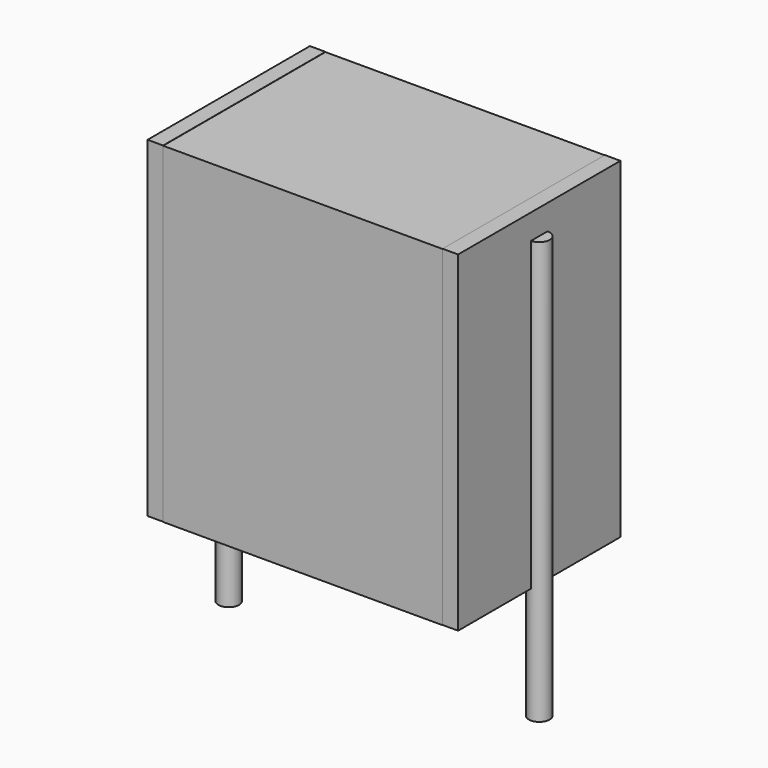
from build123d import *

# Parameters (mm, degrees)
SKETCH_W          = 6.75
SKETCH_H          = 4.9
PAD_DEPTH         = 8
SKETCH001_R       = 0.25
PAD001_DEPTH      = 7
PAD001_DEPTH_BACK = 3.2
SKETCH002_W       = 0.375
SKETCH002_H       = 4.9
PAD002_DEPTH      = 8


with BuildPart() as pad:
    # Sketch → Pad (new body)
    with BuildSketch(Plane.XY.offset(0.1)):
        with Locations((3.75, 0)):
            Rectangle(SKETCH_W, SKETCH_H)
    extrude(amount=PAD_DEPTH)


with BuildPart() as pad001:
    # Sketch001 → Pad001 (new body, two sides)
    with BuildSketch(Plane.XY.offset(0.5)) as pad001_sk:
        Circle(SKETCH001_R)
        with Locations((7.5, 0)):
            Circle(SKETCH001_R)
    extrude(amount=PAD001_DEPTH)
    extrude(pad001_sk.sketch, amount=-PAD001_DEPTH_BACK)


with BuildPart() as pad002:
    # Sketch002 → Pad002 (new body)
    with BuildSketch(Plane.XY.offset(0.105)):
        with Locations((0.1875, 0)):
            Rectangle(SKETCH002_W, SKETCH002_H)
        with Locations((7.3125, 0)):
            Rectangle(SKETCH002_W, SKETCH002_H)
    extrude(amount=PAD002_DEPTH)


solid = Compound([pad.part, pad001.part, pad002.part])
